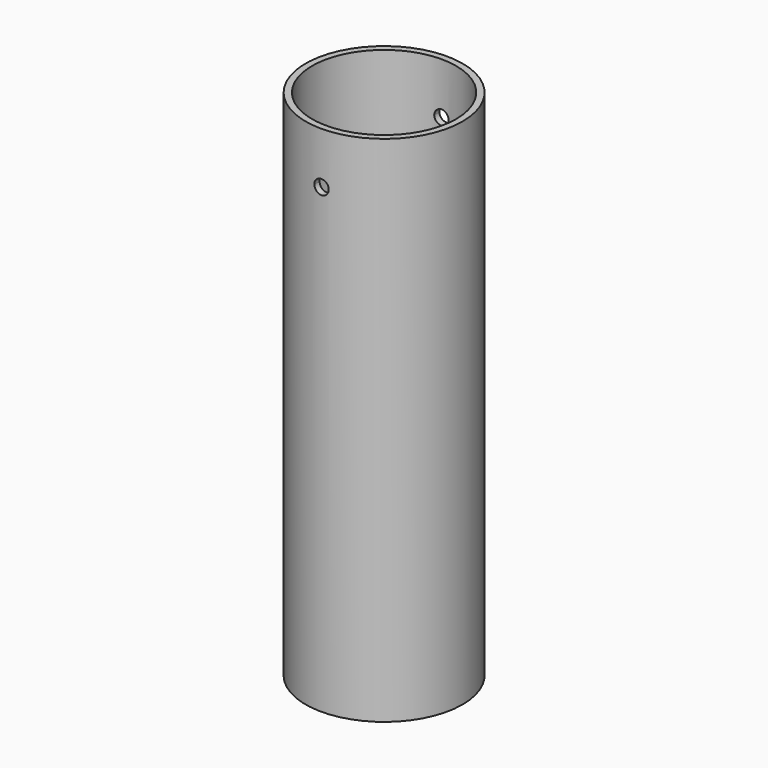
from build123d import *

# Parameters (mm, degrees)
F0_R     = 19.4183
F0_R_2   = 17.8181
F1_DEPTH = 127
F5_DEPTH = 50.8


with BuildPart() as f1:
    # F0 (on Top) → F1 (new body)
    with BuildSketch(Plane.XY):
        Circle(F0_R)
        Circle(F0_R_2, mode=Mode.SUBTRACT)
    extrude(amount=F1_DEPTH)

    # F4 (on face) → F5 (cut, symmetric)
    with BuildSketch(Plane(origin=(0, 19.4183, 0), x_dir=(-1, 0, 0), z_dir=(0, 1, 0))):
        with BuildLine():
            ThreePointArc((0, 116.078), (-1.257236, 113.042764), (1.778, 114.3))
            ThreePointArc((1.778, 114.3), (1.257236, 115.557236), (0, 116.078))
        make_face()
    extrude(amount=F5_DEPTH, both=True, mode=Mode.SUBTRACT)


solid = f1.part
